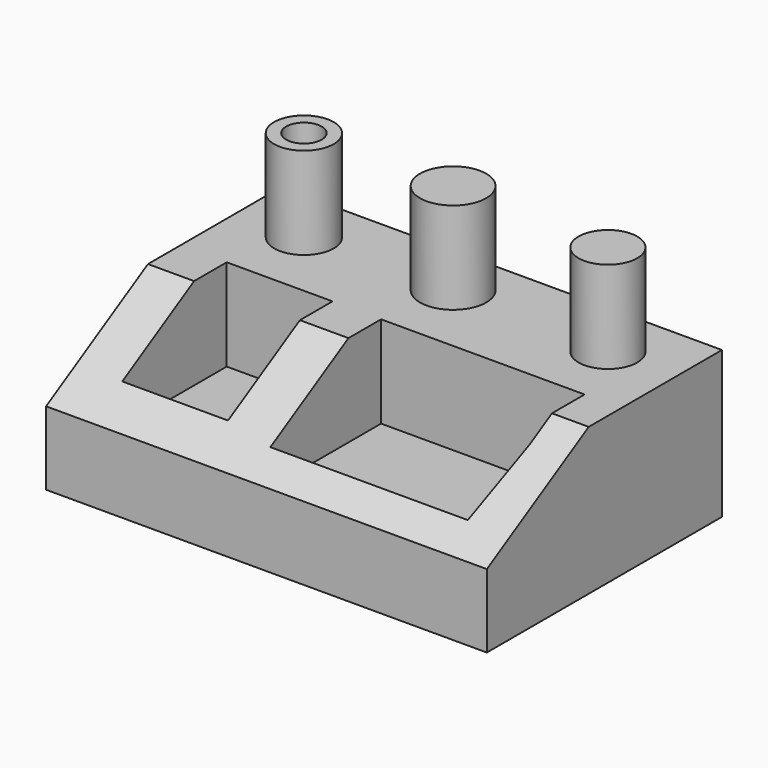
from build123d import *

# Parameters (mm, degrees)
F0_W     = 120
F0_H     = 80
F1_DEPTH = 40
F2_W     = 28.798189
F2_H     = 35.557579
F3_DEPTH = 25
F5_DEPTH = 120.001
F6_R     = 8.123016
F6_R_2   = 9.029606
F6_R_3   = 7.997109
F7_DEPTH = 25
F8_R     = 4.835396
F9_DEPTH = 65.001


with BuildPart() as f1:
    # F0 (on Top) → F1 (new body)
    with BuildSketch(Plane.XY):
        with Locations((-4.226902, -5.768067)):
            Rectangle(F0_W, F0_H)
    extrude(amount=F1_DEPTH)

    # F2 (on face) → F3 (cut)
    with BuildSketch(Plane.XY.offset(40)):
        with Locations((-37.26047, -17.778789)):
            Rectangle(F2_W, F2_H)
        Polygon((45.773098, 0), (-9.63674, 0), (-9.63674, -37.675409), (44.113688, -37.675409), (45.773098, -18.742215), align=None)
    extrude(amount=-F3_DEPTH, mode=Mode.SUBTRACT)

    # F4 (on face) → F5 (cut, through all)
    with BuildSketch(Plane.YZ.offset(55.773098)):
        Polygon((-45.768067, 40), (-45.768067, 20), (-11.09978, 40), align=None)
    extrude(amount=-F5_DEPTH, mode=Mode.SUBTRACT)

    # F6 (on face) → F7 (join)
    with BuildSketch(Plane.XY.offset(40)):
        with Locations((-46.003349, 19.200161)):
            Circle(F6_R)
        with Locations((-6.039798, 20.013448)):
            Circle(F6_R_2)
        with Locations((37.330549, 18.490579)):
            Circle(F6_R_3)
    extrude(amount=F7_DEPTH)

    # F8 (on face) → F9 (cut, through all)
    with BuildSketch(Plane.XY.offset(65)):
        with Locations((-46.003349, 19.200161)):
            Circle(F8_R)
    extrude(amount=-F9_DEPTH, mode=Mode.SUBTRACT)


solid = f1.part
